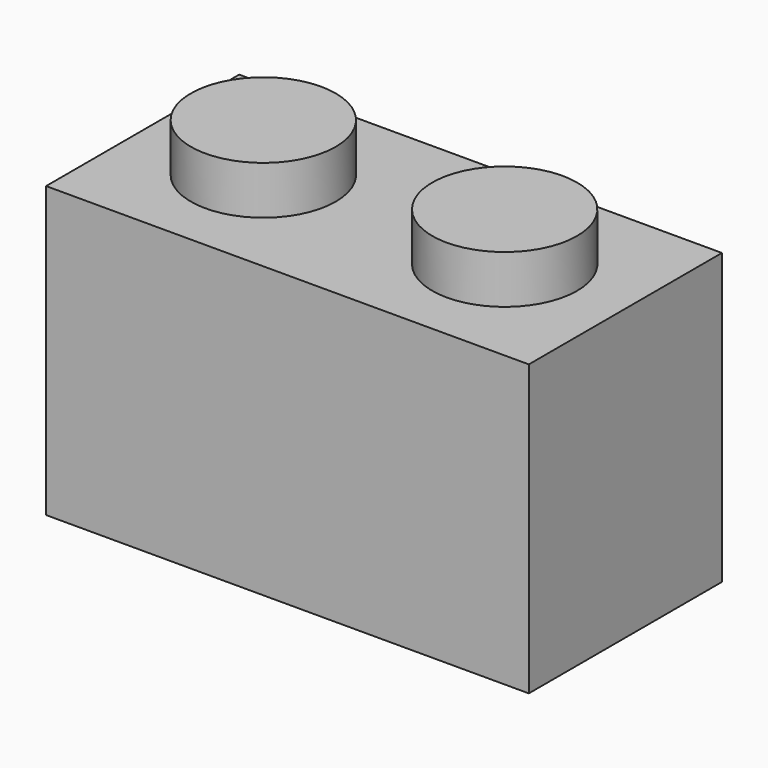
from build123d import *

# Parameters (mm, degrees)
F0_W     = 16
F0_H     = 8
F0_W_2   = 12.8
F0_H_2   = 4.8
F1_DEPTH = 9.6
F2_DEPTH = 8
F3_R     = 1.6
F4_DEPTH = 1.6
F5_R     = 2.4
F6_DEPTH = 1.6


with BuildPart() as f1:
    # F0 (on Top) → F1 (new body)
    with BuildSketch(Plane.XY):
        Rectangle(F0_W, F0_H)
        Rectangle(F0_W_2, F0_H_2, mode=Mode.SUBTRACT)
        Rectangle(F0_W_2, F0_H_2)
    extrude(amount=F1_DEPTH)

    # F0 (on Top) → F2 (cut)
    with BuildSketch(Plane.XY):
        Rectangle(F0_W_2, F0_H_2)
    extrude(amount=F2_DEPTH, mode=Mode.SUBTRACT)

    # F3 (on face) → F4 (cut)
    with BuildSketch(Plane.XY.offset(9.6)):
        with Locations((4, 0)):
            Circle(F3_R)
        with Locations((-4, 0)):
            Circle(F3_R)
    extrude(amount=-F4_DEPTH, mode=Mode.SUBTRACT)

    # F5 (on face) → F6 (join)
    with BuildSketch(Plane.XY.offset(9.6)):
        with Locations((-4, 0)):
            Circle(F5_R)
        with Locations((4, 0)):
            Circle(F5_R)
    extrude(amount=F6_DEPTH)


solid = f1.part
